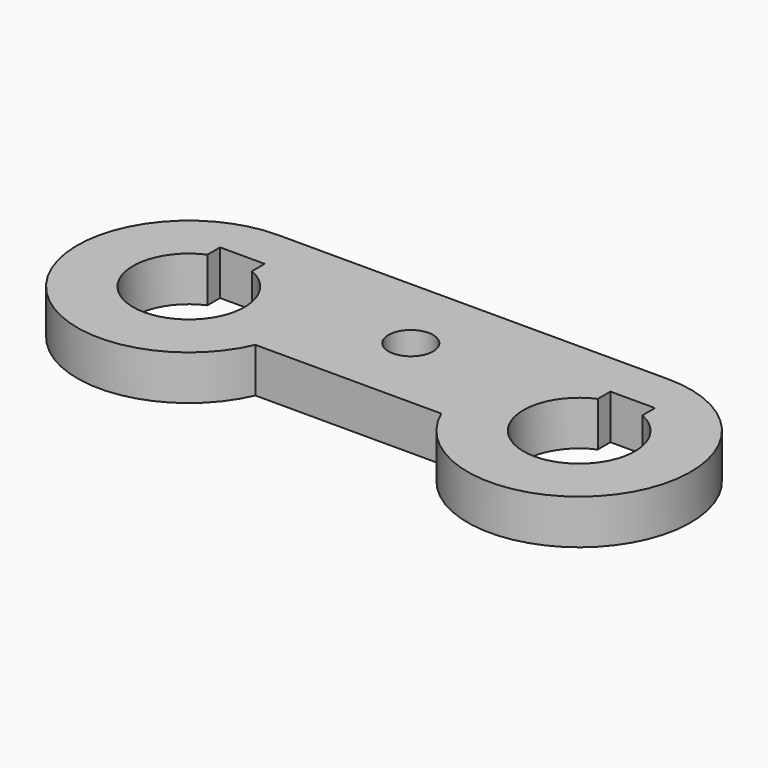
from build123d import *

# Parameters (mm, degrees)
SKETCH_R     = 1
SKETCH_R_2   = 2.5
PAD_DEPTH    = 2
SKETCH001_W  = 2
SKETCH001_H  = 2
POCKET_DEPTH = 2.001


with BuildPart() as part:
    # Sketch → Pad (new body)
    with BuildSketch(Plane.XY):
        with BuildLine():
            Line((-8.75, 3.5), (8.75, 3.5))
            ThreePointArc((4.167424, -3.5), (12.9333, -4.238613), (8.75, 3.5))
            Line((-4.167424, -3.5), (4.167424, -3.5))
            ThreePointArc((-8.75, 3.5), (-12.9333, -4.238613), (-4.167424, -3.5))
        make_face()
        Circle(SKETCH_R, mode=Mode.SUBTRACT)
        with Locations((-8.75, -1.5)):
            Circle(SKETCH_R_2, mode=Mode.SUBTRACT)
        with Locations((8.75, -1.5)):
            Circle(SKETCH_R_2, mode=Mode.SUBTRACT)
    extrude(amount=PAD_DEPTH)

    # Sketch001 → Pocket (cut, through all)
    with BuildSketch(Plane.XY.offset(2)):
        with Locations((-8.75, 0.5)):
            Rectangle(SKETCH001_W, SKETCH001_H)
        with Locations((8.75, 0.5)):
            Rectangle(SKETCH001_W, SKETCH001_H)
    extrude(amount=-POCKET_DEPTH, mode=Mode.SUBTRACT)


solid = part.part
